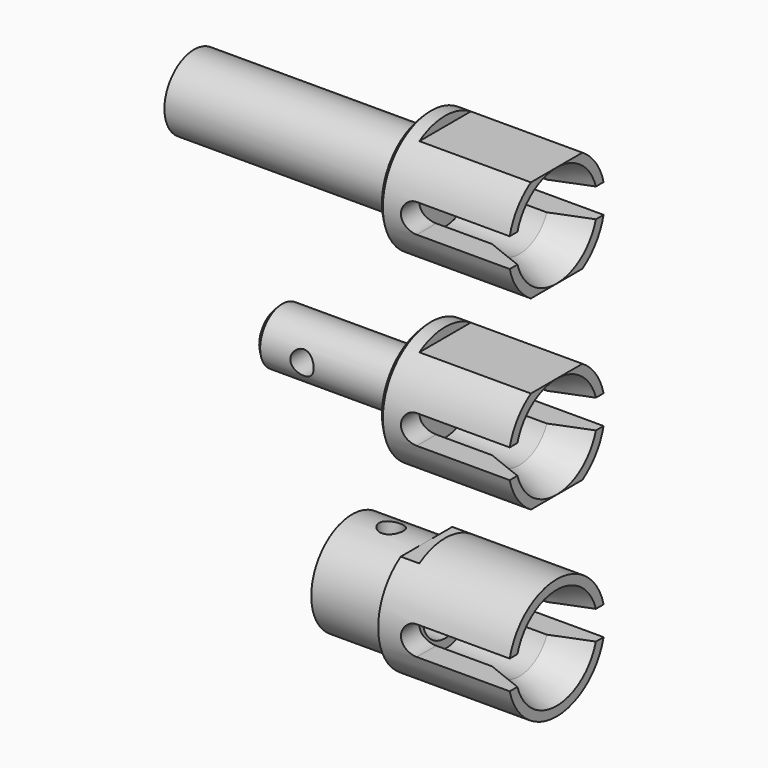
from build123d import *

# Parameters (mm, degrees)
F3_SIZE2  = 1.5
F3_SIZE   = 4
F2_R      = 1.255
F4_DEPTH  = 12.5
F5_W      = 12
F5_H      = 1
F7_DEPTH  = 12.5
F8_SIZE   = 0.5
F9_SIZE   = 0.5
F10_DEPTH = 16
F11_DEPTH = 8
F13_D     = 6
F14_R     = 6.5
F14_R_2   = 5.5
F15_DEPTH = 8
F18_W     = 2
F18_H     = 1
F19_DEPTH = 12.5
F17_R     = 1.25
F20_DEPTH = 12.5
F22_R     = 4
F23_DEPTH = 25


with BuildPart() as f1:
    # F0 (on Front) → F1 (revolve)
    with BuildSketch(Plane.XZ):
        Polygon((-1, 4), (11, 4), (11, 6.5), (-3, 6.5), (-3, 3), (-19, 3), (-19, 0), (-1, 0), align=None)
    revolve(axis=Axis((7.2839783022, 0, 0), (1, 0, 0)))

    # F3
    f3_edges = [f1.edges().sort_by_distance(p)[0] for p in [
        (11, 0, -4),
    ]]
    f3_side = f1.faces().sort_by_distance((5, 0, -4))[0]
    chamfer(f3_edges, length=F3_SIZE, length2=F3_SIZE2, reference=f3_side)

    # F2 (on Front) → F4 (cut, symmetric)
    with BuildSketch(Plane.XZ):
        with BuildLine():
            ThreePointArc((1, 1.55), (-0.55, 0), (1, -1.55))
            Line((1, -1.55), (11, -1.55))
            ThreePointArc((11, -1.55), (12.55, 0), (11, 1.55))
            Line((11, 1.55), (1, 1.55))
        make_face()
        with Locations((-14, 0)):
            Circle(F2_R)
    extrude(amount=F4_DEPTH, both=True, mode=Mode.SUBTRACT)


with BuildPart() as f6_1:
    # F6: copy of F1
    add(f1.part.moved(Location((0, 0, -20))))

    # F10 (cut, through all): a face of the model
    f10_faces = [f6_1.faces().sort_by_distance(p)[0] for p in [
        (-19, 0, -20),
    ]]
    extrude(f10_faces, amount=-F10_DEPTH, mode=Mode.SUBTRACT)

    # F11 (add): a face of the model
    f11_faces = [f6_1.faces().sort_by_distance(p)[0] for p in [
        (-3, 0, -20),
    ]]
    extrude(f11_faces, amount=F11_DEPTH)

    # F13 (through all)
    with Locations(Plane(origin=(-11, 0, 0), x_dir=(0, -1, 0), z_dir=(-1, 0, 0))):
        with Locations((0, -20)):
            Hole(F13_D / 2)

    # F14 (on face) → F15 (cut)
    with BuildSketch(Plane(origin=(-11, 0, 0), x_dir=(0, -1, 0), z_dir=(-1, 0, 0))):
        with Locations((0, -20)):
            Circle(F14_R)
        with Locations((0, -20)):
            Circle(F14_R_2, mode=Mode.SUBTRACT)
    extrude(amount=-F15_DEPTH, mode=Mode.SUBTRACT)

    # F18 (on Front) → F19 (cut, symmetric)
    with BuildSketch(Plane.XZ):
        with Locations((-2, -14)):
            Rectangle(F18_W, F18_H)
        with Locations((-2, -26)):
            Rectangle(F18_W, F18_H)
    extrude(amount=F19_DEPTH, both=True, mode=Mode.SUBTRACT)

    # F17 (on offset) → F20 (cut, symmetric)
    with BuildSketch(Plane.XY.offset(-20)):
        with Locations((-7, 0.2463755081)):
            Circle(F17_R)
    extrude(amount=F20_DEPTH, both=True, mode=Mode.SUBTRACT)


with BuildPart() as f1_1:
    add(f1.part)

    # F5 (on Front) → F7 (cut, symmetric)
    with BuildSketch(Plane.XZ):
        with Locations((5, -6)):
            Rectangle(F5_W, F5_H)
        with Locations((5, 6)):
            Rectangle(F5_W, F5_H)
    extrude(amount=F7_DEPTH, both=True, mode=Mode.SUBTRACT)

    # F8
    f8_edges = [f1_1.edges().sort_by_distance(p)[0] for p in [
        (-19, 0, -3),
        (-3, 0, -6.5),
    ]]
    chamfer(f8_edges, length=F8_SIZE)

    # F9
    f9_edges = [f1_1.edges().sort_by_distance(p)[0] for p in [
        (-3, 0, -3),
    ]]
    chamfer(f9_edges, length=F9_SIZE)


with BuildPart() as f21_1:
    # F21: copy of F1
    add(f1_1.part.moved(Location((0, 0, 20))))

    # F22 (on face) → F23 (join)
    with BuildSketch(Plane(origin=(-3, 0, 0), x_dir=(0, -1, 0), z_dir=(-1, 0, 0))):
        with Locations((0, 20)):
            Circle(F22_R)
    extrude(amount=F23_DEPTH)


solid = Compound([f6_1.part, f1_1.part, f21_1.part])
